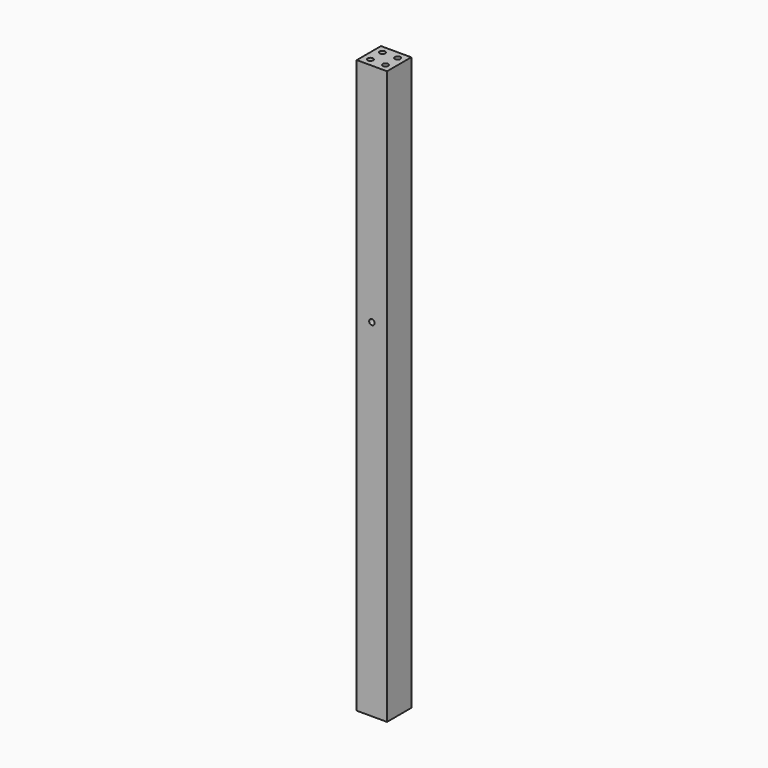
from build123d import *

# Parameters (mm, degrees)
F0_W     = 139.7
F0_H     = 2641.6
F0_R     = 12.7
F1_DEPTH = 139.7
F3_D     = 25.4


with BuildPart() as f1:
    # F0 (on Front) → F1 (new body)
    with BuildSketch(Plane.XZ):
        with Locations((-12.82603, 1294.426093)):
            Rectangle(F0_W, F0_H)
        with Locations((-12.82603, 1573.826093)):
            Circle(F0_R, mode=Mode.SUBTRACT)
    extrude(amount=F1_DEPTH)

    # F3 (through all)
    with Locations(Plane.XY.offset(2615.226093)):
        with Locations((-47.75103, -34.925), (22.09897, -34.925), (22.09897, -104.775), (-47.75103, -104.775)):
            Hole(F3_D / 2)


solid = f1.part
